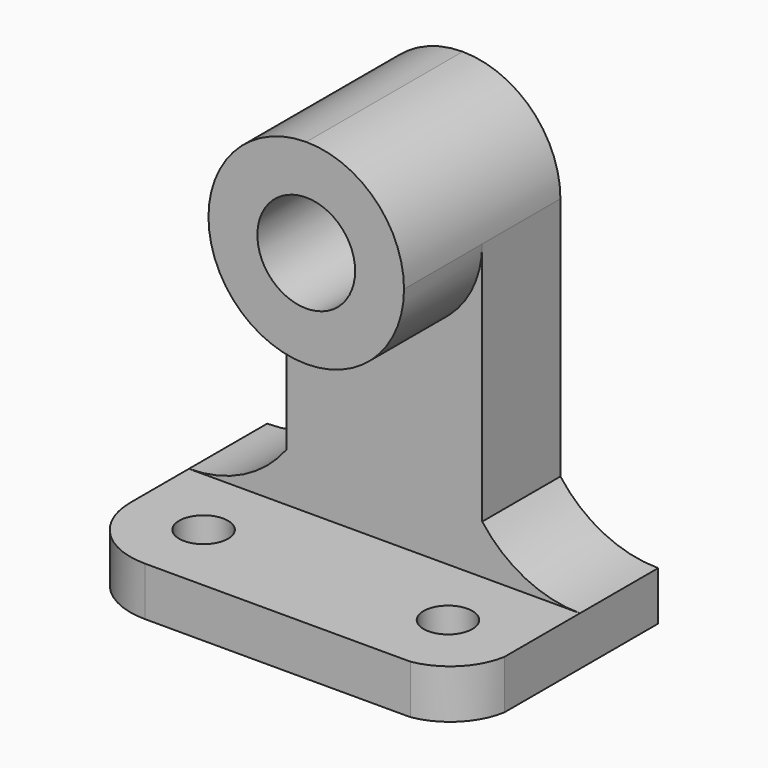
from build123d import *

# Parameters (mm, degrees)
F0_W      = 50.8
F0_H      = 31.75
F1_DEPTH  = 6.35
F2_R      = 3.175
F3_DEPTH  = 25.4
F4_W      = 50.8
F4_H      = 50.8
F5_DEPTH  = 25.4
F7_DEPTH  = 31.75
F9_DEPTH  = 12.7
F10_R     = 6.35
F11_DEPTH = 25.4


with BuildPart() as f1:
    # F0 (on Top) → F1 (new body)
    with BuildSketch(Plane.XY):
        with Locations((25.4, 15.875)):
            Rectangle(F0_W, F0_H)
    extrude(amount=F1_DEPTH)

    # F2 (on face) → F3 (cut)
    with BuildSketch(Plane.XY.offset(6.35)):
        with BuildLine():
            ThreePointArc((9.525, 0), (2.7898079092, 2.7898079092), (0, 9.525))
            Line((0, 9.525), (0, 0))
            Line((0, 0), (9.525, 0))
        make_face()
        with Locations((9.525, 9.525)):
            Circle(F2_R)
        with Locations((41.275, 9.525)):
            Circle(F2_R)
        with BuildLine():
            ThreePointArc((50.8, 6.8012806053), (48.4888474552, 2.3111525448), (43.9987193947, 0))
            Line((43.9987193947, 0), (50.8, 0))
            Line((50.8, 0), (50.8, 6.8012806053))
        make_face()
    extrude(amount=-F3_DEPTH, mode=Mode.SUBTRACT)


with BuildPart() as f5:
    # F4 (on face) → F5 (new body)
    with BuildSketch(Plane(origin=(0, 31.75, 0), x_dir=(-1, 0, 0), z_dir=(0, 1, 0))):
        with Locations((-25.4, 31.75)):
            Rectangle(F4_W, F4_H)
    extrude(amount=-F5_DEPTH)

    # F6 (on face) → F7 (cut)
    with BuildSketch(Plane.XZ.offset(-6.35)):
        with BuildLine():
            Line((12.7, 12.7), (12.7, 44.45))
            ThreePointArc((12.7, 44.45), (16.4197438789, 53.4302561211), (25.4, 57.15))
            Line((25.4, 57.15), (0, 57.15))
            Line((0, 57.15), (0, 6.35))
            ThreePointArc((0, 6.35), (7.0995158286, 8.0259683429), (12.7, 12.7))
        make_face()
        with BuildLine():
            ThreePointArc((25.4, 57.15), (34.3802561211, 53.4302561211), (38.1, 44.45))
            Line((38.1, 44.45), (38.1, 12.7))
            ThreePointArc((38.1, 12.7), (43.7004841714, 8.0259683429), (50.8, 6.35))
            Line((50.8, 6.35), (50.8, 57.15))
            Line((50.8, 57.15), (25.4, 57.15))
        make_face()
    extrude(amount=-F7_DEPTH, mode=Mode.SUBTRACT)

    # F8 (on face) → F9 (cut)
    with BuildSketch(Plane.XZ.offset(-6.35)):
        with BuildLine():
            Line((38.1, 12.7), (38.1, 44.45))
            ThreePointArc((38.1, 44.45), (25.4, 31.75), (12.7, 44.45))
            Line((12.7, 44.45), (12.7, 12.7))
            ThreePointArc((12.7, 12.7), (7.0995158286, 8.0259683429), (0, 6.35))
            Line((0, 6.35), (50.8, 6.35))
            ThreePointArc((50.8, 6.35), (43.7004841714, 8.0259683429), (38.1, 12.7))
        make_face()
    extrude(amount=-F9_DEPTH, mode=Mode.SUBTRACT)

    # F10 (on face) → F11 (cut)
    with BuildSketch(Plane.XZ.offset(-6.35)):
        with Locations((25.4, 44.45)):
            Circle(F10_R)
    extrude(amount=-F11_DEPTH, mode=Mode.SUBTRACT)


solid = Compound([f1.part, f5.part])
